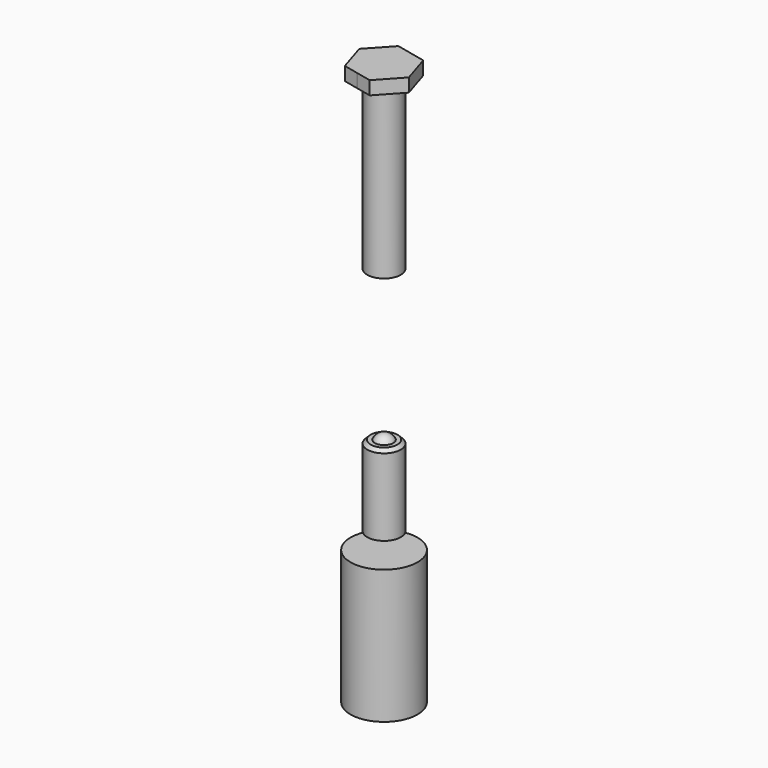
from build123d import *

# Parameters (mm, degrees)
F0_W     = 5
F0_H     = 20
F3_DEPTH = 2
F4_SIZE  = 0.5


with BuildPart() as f1:
    # F0 (on Front) → F1 (revolve)
    with BuildSketch(Plane.XZ):
        Polygon((0, 27), (0, 0), (2.5, 0), (2.5, 25), (4, 25), (4, 27), align=None)
        with BuildLine():
            Line((2.5, -22.463812), (1.374773, -22.463812))
            ThreePointArc((1.374773, -22.463812), (0.821584, -21.808822), (0, -21.563812))
            Line((0, -21.563812), (0, -22.463812))
            Line((0, -22.463812), (0, -34.463812))
            Line((0, -34.463812), (2.5, -34.463812))
            Line((2.5, -34.463812), (2.5, -22.463812))
        make_face()
        with Locations((2.5, -46.942504)):
            Rectangle(F0_W, F0_H)
    revolve(axis=Axis((0, 0, 13.5), (0, 0, -1)))

    # F2 (on face) → F3 (join)
    with BuildSketch(Plane.XY.offset(27)):
        Polygon((1.377257, -4.408684), (4.506661, -1.011603), (3.129404, 3.397081), (-1.377257, 4.408684), (-4.506661, 1.011603), (-3.129404, -3.397081), align=None)
    extrude(amount=-F3_DEPTH)

    # F4
    f4_edges = [f1.edges().sort_by_distance(p)[0] for p in [
        (-2.5, 0, -22.463812),
    ]]
    chamfer(f4_edges, length=F4_SIZE)


solid = f1.part
